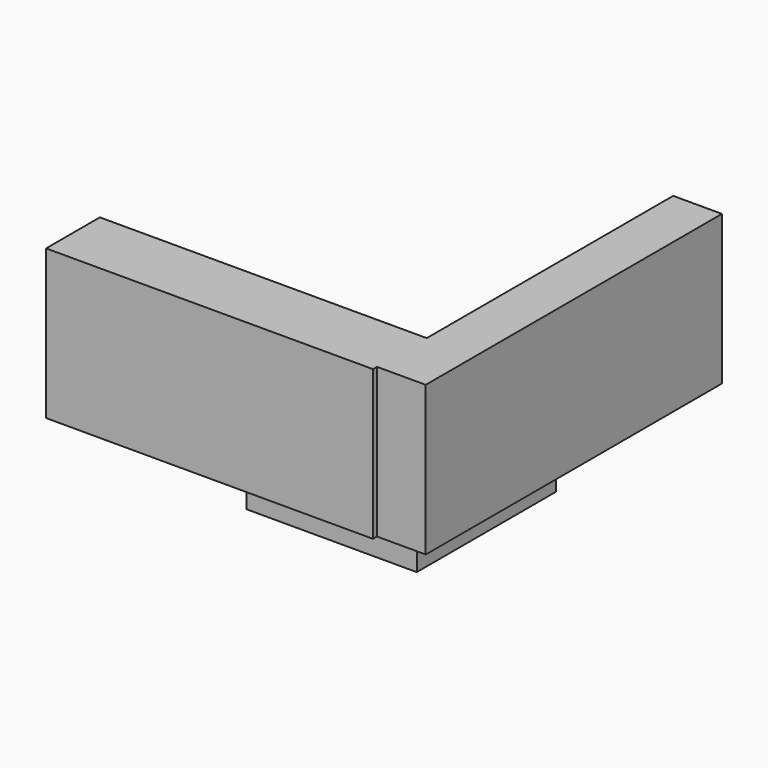
from build123d import *

# Parameters (mm, degrees)
F1_DEPTH = 76.2
F2_W     = 86.727872
F2_H     = 88.794507
F3_DEPTH = 12.7


with BuildPart() as f1:
    # F0 (on Top) → F1 (new body)
    with BuildSketch(Plane.XY):
        Polygon((95.261492, -93.746223), (95.261492, 95.098577), (70.404865, 95.098577), (70.404865, -62.02057), (70.404865, -93.746223), align=None)
        Polygon((95.261492, -93.746223), (95.261492, 95.098577), (70.404865, 95.098577), (70.404865, -62.02057), (70.404865, -93.746223), align=None)
        Polygon((70.404865, -93.746223), (70.404865, -62.02057), (-96.327305, -62.02057), (-96.327305, -96.29982), (70.404865, -96.29982), align=None)
    extrude(amount=F1_DEPTH)

    # F2 (on Top) → F3 (join)
    with BuildSketch(Plane.XY):
        with Locations((43.363936, -44.397253)):
            Rectangle(F2_W, F2_H)
    extrude(amount=-F3_DEPTH)


solid = f1.part
